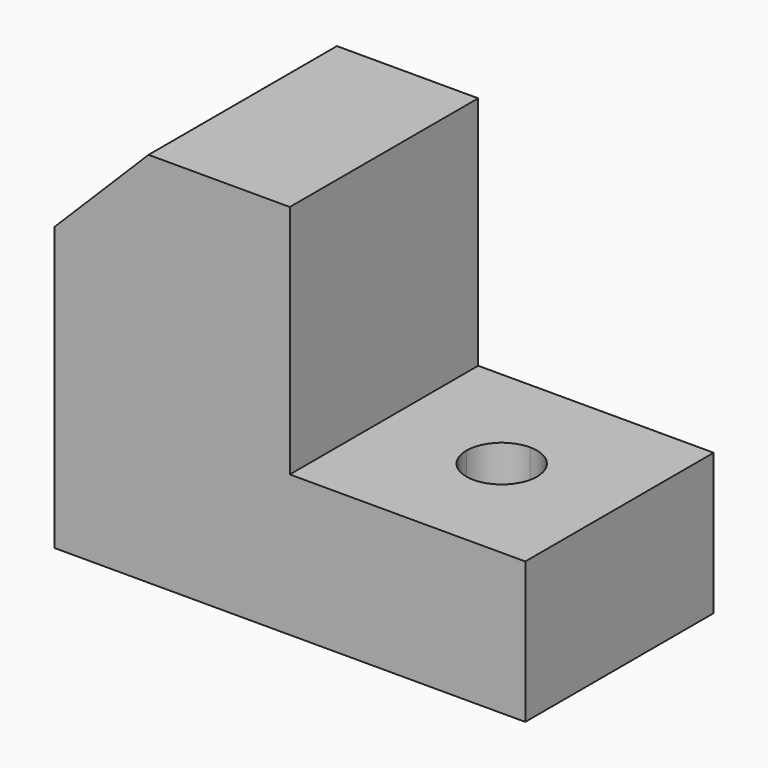
from build123d import *

# Parameters (mm, degrees)
F0_W     = 100
F0_H     = 50
F1_DEPTH = 30
F2_W     = 50
F2_H     = 50
F3_DEPTH = 50
F5_DEPTH = 50
F7_DEPTH = 30


with BuildPart() as f1:
    # F0 (on Top) → F1 (new body)
    with BuildSketch(Plane.XY):
        with Locations((50, 25)):
            Rectangle(F0_W, F0_H)
    extrude(amount=F1_DEPTH)

    # F2 (on face) → F3 (join)
    with BuildSketch(Plane.XY.offset(30)):
        with Locations((25, 25)):
            Rectangle(F2_W, F2_H)
    extrude(amount=F3_DEPTH)

    # F4 (on face) → F5 (cut, through all)
    with BuildSketch(Plane.XZ):
        Polygon((20, 80), (0, 80), (0, 60), align=None)
    extrude(amount=-F5_DEPTH, mode=Mode.SUBTRACT)

    # F6 (on face) → F7 (cut, through all)
    with BuildSketch(Plane(origin=(0, 0, 0), x_dir=(1, 0, 0), z_dir=(0, 0, -1))):
        with BuildLine():
            Line((75, -25), (67.5, -25))
            ThreePointArc((67.5, -25), (69.696699, -30.303301), (75, -32.5))
            Line((75, -32.5), (75, -25))
        make_face()
        with BuildLine():
            ThreePointArc((82.5, -25), (75, -17.5), (67.5, -25))
            Line((67.5, -25), (75, -25))
            Line((75, -25), (75, -32.5))
            ThreePointArc((75, -32.5), (80.303301, -30.303301), (82.5, -25))
        make_face()
    extrude(amount=-F7_DEPTH, mode=Mode.SUBTRACT)


solid = f1.part
